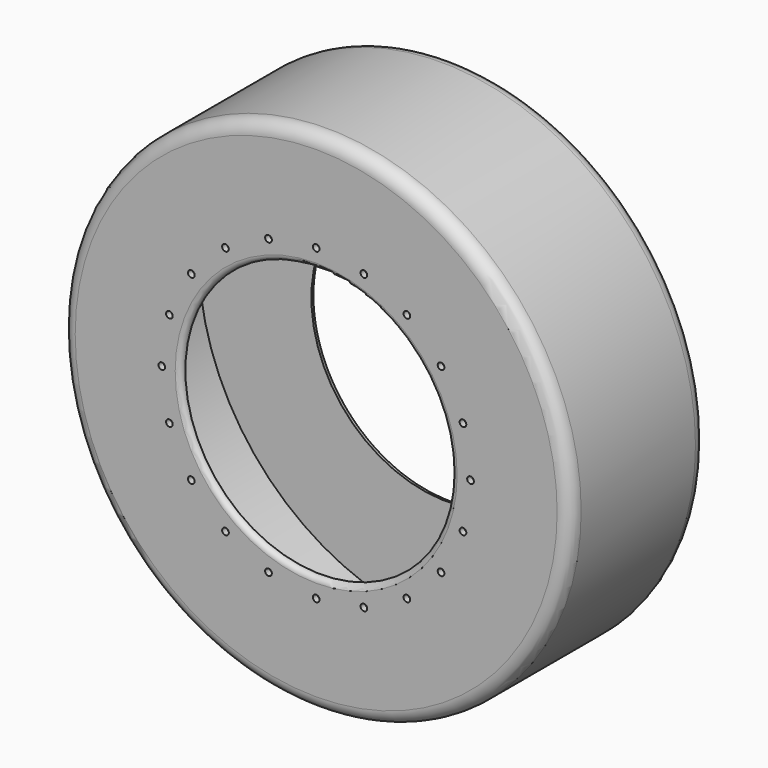
from build123d import *

# Parameters (mm, degrees)
F0_R     = 381
F1_DEPTH = 254
F2_R     = 203.2
F3_DEPTH = 271.78
F4_T     = -9
F5_R     = 20
F6_R     = 8
F7_R     = 5
F8_DEPTH = 9


with BuildPart() as f1:
    # F0 (on Front) → F1 (new body)
    with BuildSketch(Plane.XZ):
        Circle(F0_R)
    extrude(amount=F1_DEPTH)

    # F2 (on face) → F3 (cut)
    with BuildSketch(Plane.XZ.offset(254)):
        Circle(F2_R)
    extrude(amount=-F3_DEPTH, mode=Mode.SUBTRACT)

    # F4
    f4_openings = [f1.faces().sort_by_distance(p)[0] for p in [
        (-203.2, -127, 0),
    ]]
    offset(amount=F4_T, openings=f4_openings)

    # F5
    f5_edges = [f1.edges().sort_by_distance(p)[0] for p in [
        (-381, -254, 0),
        (-381, 0, 0),
    ]]
    fillet(f5_edges, radius=F5_R)

    # F6
    f6_edges = [f1.edges().sort_by_distance(p)[0] for p in [
        (-203.2, -254, 0),
        (-203.2, 0, 0),
    ]]
    fillet(f6_edges, radius=F6_R)

    # F7 (on face) → F8 (cut, through all)
    with BuildSketch(Plane.XZ.offset(254)):
        with Locations((0, 231.2)):
            Circle(F7_R)
        with Locations((-71.444729, 219.884267)):
            Circle(F7_R)
        with Locations((-135.89595, 187.044729)):
            Circle(F7_R)
        with Locations((-187.044729, 135.89595)):
            Circle(F7_R)
        with Locations((-219.884267, 71.444729)):
            Circle(F7_R)
        with Locations((-231.2, 0)):
            Circle(F7_R)
        with Locations((-219.884267, -71.444729)):
            Circle(F7_R)
        with Locations((-187.044729, -135.89595)):
            Circle(F7_R)
        with Locations((-135.89595, -187.044729)):
            Circle(F7_R)
        with Locations((-71.444729, -219.884267)):
            Circle(F7_R)
        with Locations((0, -231.2)):
            Circle(F7_R)
        with Locations((71.444729, -219.884267)):
            Circle(F7_R)
        with Locations((135.89595, -187.044729)):
            Circle(F7_R)
        with Locations((187.044729, -135.89595)):
            Circle(F7_R)
        with Locations((219.884267, -71.444729)):
            Circle(F7_R)
        with Locations((231.2, 0)):
            Circle(F7_R)
        with Locations((219.884267, 71.444729)):
            Circle(F7_R)
        with Locations((187.044729, 135.89595)):
            Circle(F7_R)
        with Locations((135.89595, 187.044729)):
            Circle(F7_R)
        with Locations((71.444729, 219.884267)):
            Circle(F7_R)
    extrude(amount=-F8_DEPTH, mode=Mode.SUBTRACT)


solid = f1.part
